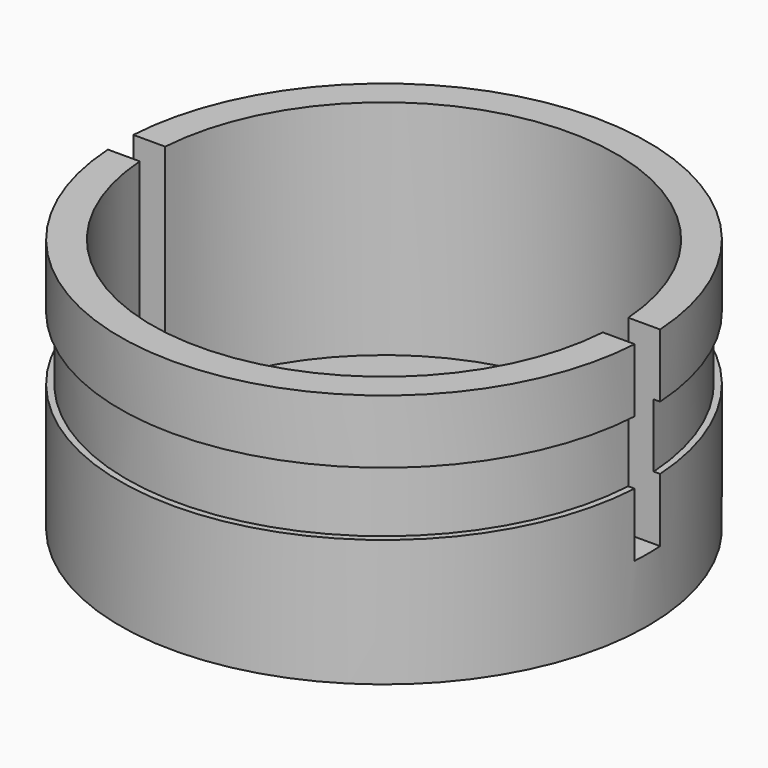
from build123d import *

# Parameters (mm, degrees)
F2_W     = 100
F2_H     = 5
F3_DEPTH = 30


with BuildPart() as f1:
    # F0 (on Front) → F1 (revolve)
    with BuildSketch(Plane.XZ):
        Polygon((0, 5), (0, 0), (41.5, 0), (41.5, 20), (40.5, 20), (40.5, 30), (41.5, 30), (41.5, 40), (36.5, 40), (36.5, 5), align=None)
    revolve(axis=Axis((0, 0, 2.5), (0, 0, -1)))

    # F2 (on face) → F3 (cut)
    with BuildSketch(Plane.XY.offset(40)):
        Rectangle(F2_W, F2_H)
    extrude(amount=-F3_DEPTH, mode=Mode.SUBTRACT)


solid = f1.part
